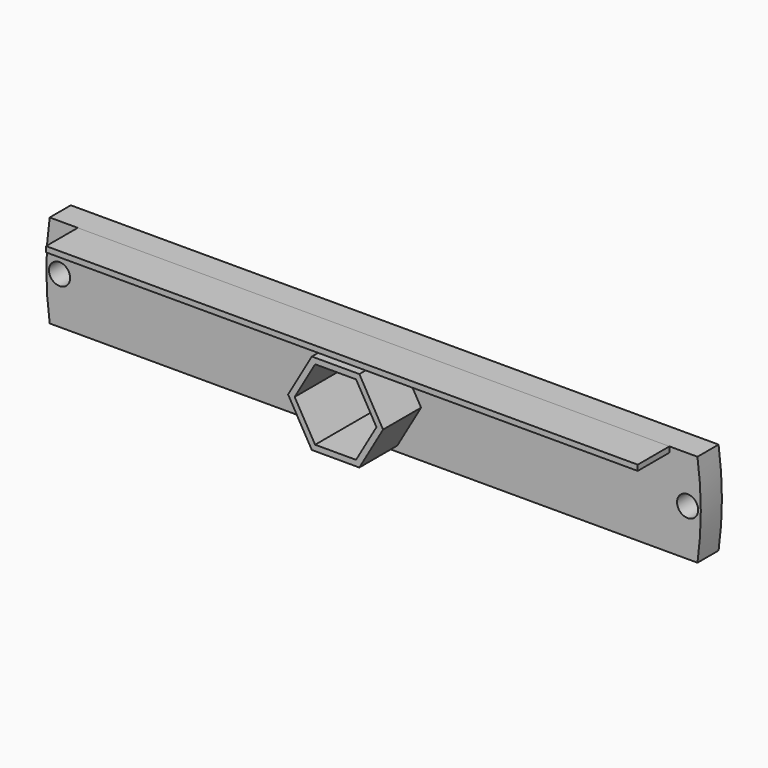
from build123d import *

# Parameters (mm, degrees)
SKETCH003_R             = 1.6
PAD003_DEPTH            = 4
SKETCH033_W             = 89.681574
SKETCH033_H             = 0.835685
PAD026_DEPTH            = 6
PAD033_DEPTH            = 7.2
BODY002_PLACEMENT_ANGLE = 180


with BuildPart() as part:
    # Sketch003 → Pad003 (new body)
    with BuildSketch(Plane.XZ):
        with BuildLine():
            Line((-49.09338, 7.071068), (49.09338, 7.071068))
            ThreePointArc((49.09338, -7.071068), (49.6, 0), (49.09338, 7.071068))
            Line((-49.09338, -7.071068), (49.09338, -7.071068))
            ThreePointArc((-49.09338, 7.071068), (-49.6, 0), (-49.09338, -7.071068))
        make_face()
        with Locations((47.6, 0)):
            Circle(SKETCH003_R, mode=Mode.SUBTRACT)
        with Locations((-47.6, 0)):
            Circle(SKETCH003_R, mode=Mode.SUBTRACT)
        Polygon((6.2, 0), (3.1, 5.369358), (-3.1, 5.369358), (-6.2, 0), (-3.1, -5.369358), (3.1, -5.369358), align=None, mode=Mode.SUBTRACT)
    extrude(amount=PAD003_DEPTH)

    # Sketch033 → Pad026 (join)
    with BuildSketch(Plane(origin=(0, 0, 0), x_dir=(1, 0, 0), z_dir=(0, 1, 0))):
        with Locations((0, -6.653225)):
            Rectangle(SKETCH033_W, SKETCH033_H)
    extrude(amount=PAD026_DEPTH)

    # Sketch028 (on Face4 of Pad026) → Pad033 (join)
    with BuildSketch(Plane(origin=(0, 0, 0), x_dir=(1, 0, 0), z_dir=(0, 1, 0))):
        Polygon((3.6, 6.235383), (-3.6, 6.235383), (-7.2, 0), (-3.6, -6.235383), (3.6, -6.235383), (7.2, 0), align=None)
        Polygon((3.1, 5.369358), (-3.1, 5.369358), (-6.2, 0), (-3.1, -5.369358), (3.1, -5.369358), (6.2, 0), align=None, mode=Mode.SUBTRACT)
    extrude(amount=PAD033_DEPTH)


with BuildPart() as part_1:
    # Body002 placement: moved
    add(part.part.moved(Location((0, -75.8, 0))).rotate(Axis((0, -75.8, 0), (0, 0, 1)), BODY002_PLACEMENT_ANGLE))


solid = part_1.part
